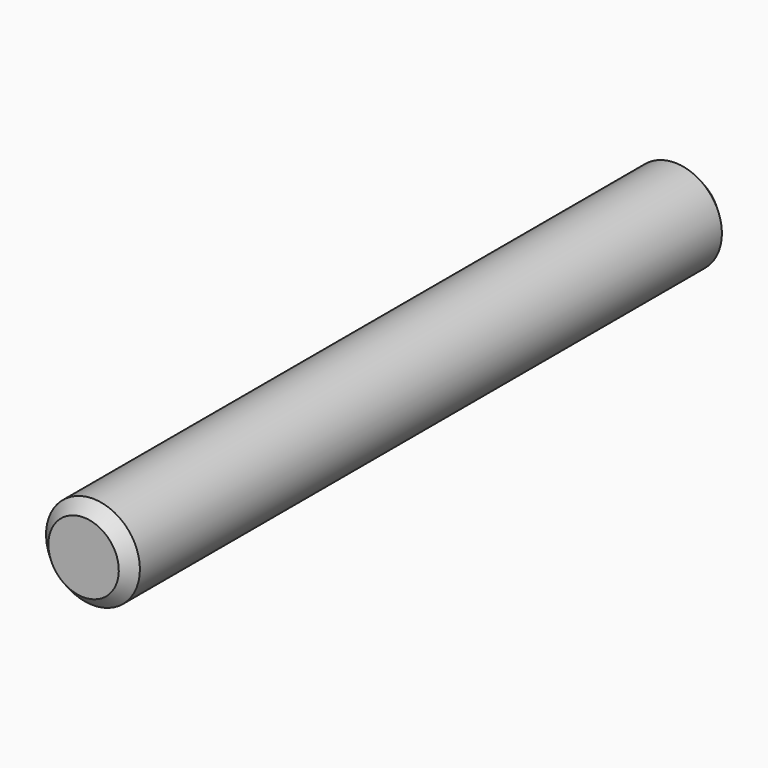
from build123d import *

# Parameters (mm, degrees)
SKETCH_R  = 2.5
PAD_DEPTH = 20


with BuildPart() as part:
    # Sketch → Pad (new body, symmetric)
    with BuildSketch(Plane.XZ):
        Circle(SKETCH_R)
    extrude(amount=PAD_DEPTH, both=True)

    # Sketch001 → Groove (revolve, cut)
    with BuildSketch(Plane.YZ):
        Polygon((-20, 4.5), (20, 4.5), (20, 1.875), (19.375, 2.5), (-19.375, 2.5), (-20, 1.875), align=None)
    revolve(axis=Axis((0, 0, 0), (0, 1, 0)), mode=Mode.SUBTRACT)


solid = part.part
